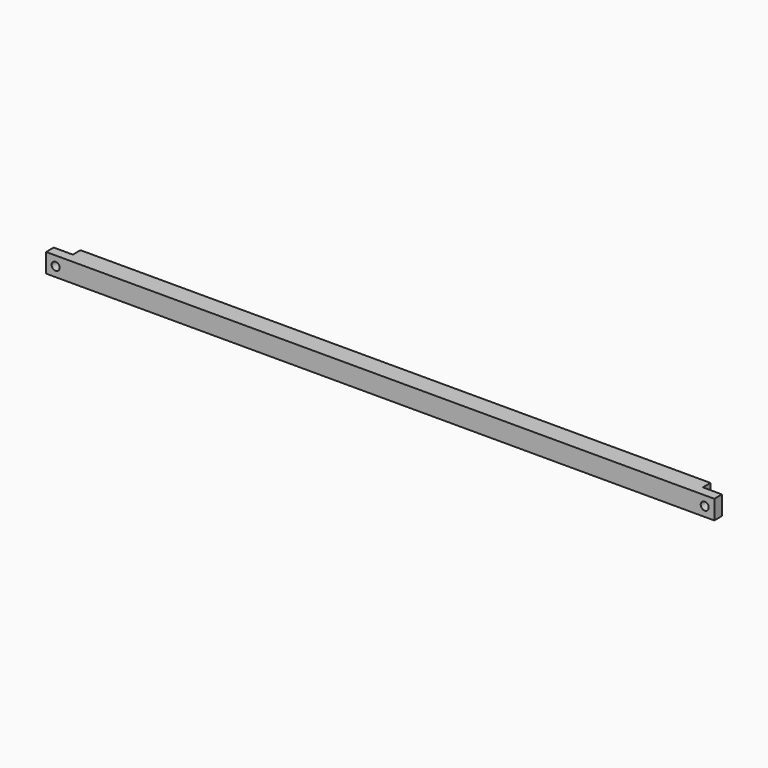
from build123d import *

# Parameters (mm, degrees)
F1_DEPTH = 10
F2_R     = 2.1
F3_DEPTH = 5.001
F5_ANGLE = 90


with BuildPart() as f1:
    # F0 (on Right) → F1 (new body)
    with BuildSketch(Plane.YZ):
        Polygon((-10, 0), (0, 0), (0, 165), (-5, 165), (-5, 175), (-10, 175), align=None)
    extrude(amount=F1_DEPTH)

    # F2 (on face) → F3 (cut, through all)
    with BuildSketch(Plane(origin=(0, -5, 0), x_dir=(-1, 0, 0), z_dir=(0, 1, 0))):
        with Locations((-5, 170)):
            Circle(F2_R)
    extrude(amount=-F3_DEPTH, mode=Mode.SUBTRACT)

    # F4: F1 across plane


with BuildPart() as f1_1:
    add(f1.part)
    add(f1.part.mirror(Plane.XY))


with BuildPart() as f1_2:
    # F5: moved
    add(f1_1.part.rotate(Axis((0, -5, 0), (0, 1, 0)), F5_ANGLE))


solid = f1_2.part
